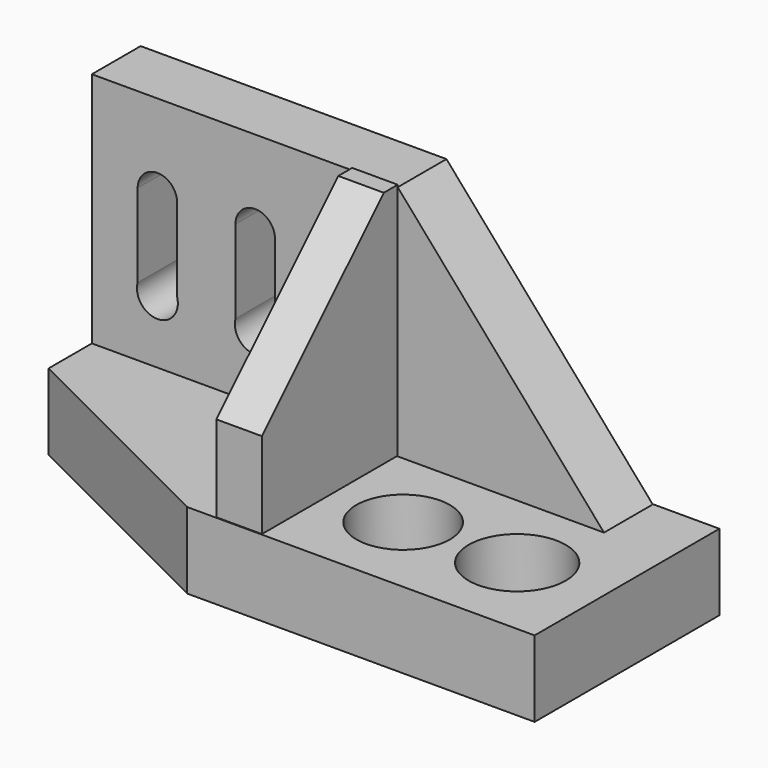
from build123d import *

# Parameters (mm, degrees)
F0_W      = 35.6949009001
F0_H      = 36.5447811782
F1_DEPTH  = 7.112
F2_W      = 26.9532920793
F2_H      = 13.2338248659
F3_DEPTH  = 8.89
F4_W      = 5.3117033094
F4_H      = 27.8393924236
F5_DEPTH  = 19.812
F6_SIZE   = 17.78
F8_DEPTH  = 25.4
F9_R      = 5.4567571196
F9_R_2    = 5.6687450147
F10_DEPTH = 25.4


with BuildPart() as f1:
    # F0 (on Front) → F1 (new body)
    with BuildSketch(Plane.XZ):
        with Locations((-17.8474504501, 18.2723905891)):
            Rectangle(F0_W, F0_H)
        Polygon((0, 36.5447811782), (0, 0), (31.8097434938, 0), align=None)
    extrude(amount=-F1_DEPTH)

    # F2 (on Top) → F3 (join)
    with BuildSketch(Plane.XY):
        Polygon((31.8097434938, 7.1632624604), (-8.7416088209, 7.1632624604), (-8.7416088209, 6.9204405881), (-8.7416088209, -6.3133842777), (-8.7416088209, -19.7900310159), (31.8097434938, -19.7900310159), align=None)
        with Locations((-22.2182548605, 0.3035281552)):
            Rectangle(F2_W, F2_H)
        Polygon((-8.7416088209, -19.7900310159), (-8.7416088209, -6.3133842777), (-35.6949009001, -6.3133842777), align=None)
    extrude(amount=F3_DEPTH)

    # F4 (on Front) → F5 (join)
    with BuildSketch(Plane.XZ):
        with Locations((-2.6558516547, 22.8818580508)):
            Rectangle(F4_W, F4_H)
    extrude(amount=F5_DEPTH)

    # F6
    f6_edges = [f1.edges().sort_by_distance(p)[0] for p in [
        (-2.655852, -19.812, 36.801554),
    ]]
    chamfer(f6_edges, length=F6_SIZE)

    # F7 (on Front) → F8 (cut)
    with BuildSketch(Plane.XZ):
        with BuildLine():
            ThreePointArc((-25.7391817868, 26.5890602022), (-28.0459942296, 28.8958726451), (-30.3528066725, 26.5890602022))
            Line((-30.3528066725, 26.5890602022), (-30.3528066725, 16.8761610985))
            ThreePointArc((-30.3528066725, 16.8761610985), (-28.0459942296, 13.8837524755), (-25.7391817868, 16.8761610985))
            Line((-25.7391817868, 16.8761610985), (-25.7391817868, 26.5890602022))
        make_face()
        with BuildLine():
            Line((-18.9401526004, 26.5890602022), (-18.9401526004, 16.8761610985))
            ThreePointArc((-18.9401526004, 16.8761610985), (-16.6333387606, 13.93419969), (-14.3265249208, 16.8761610985))
            Line((-14.3265249208, 16.8761610985), (-14.3265249208, 26.5890602022))
            ThreePointArc((-14.3265249208, 26.5890602022), (-16.6333387606, 28.8958740421), (-18.9401526004, 26.5890602022))
        make_face()
    extrude(amount=-F8_DEPTH, mode=Mode.SUBTRACT)

    # F9 (on face) → F10 (cut)
    with BuildSketch(Plane.XY.offset(8.89)):
        with Locations((8.4987860173, -9.8343091086)):
            Circle(F9_R)
        with Locations((21.6111987829, -9.5914872363)):
            Circle(F9_R_2)
    extrude(amount=-F10_DEPTH, mode=Mode.SUBTRACT)


solid = f1.part
